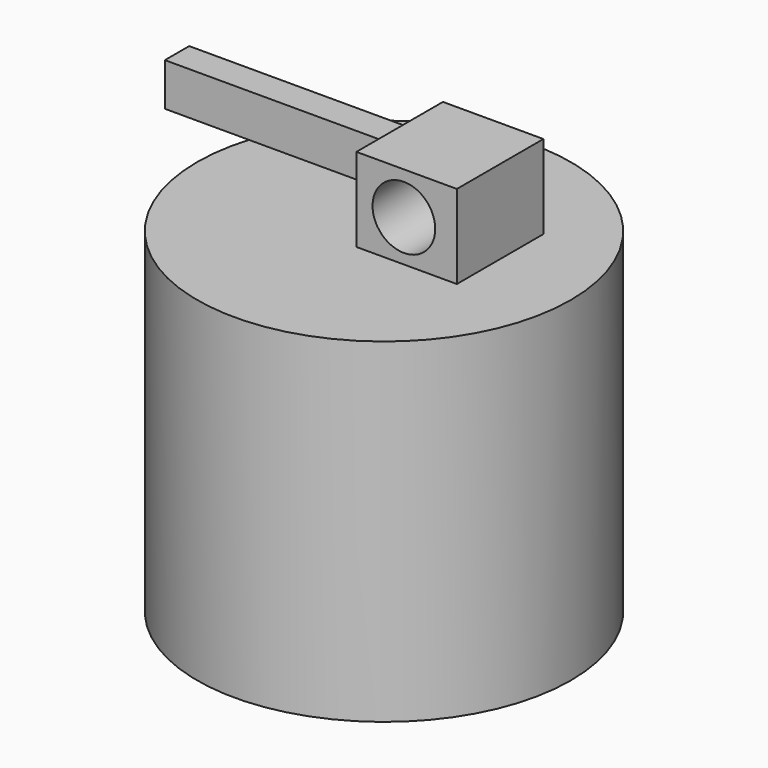
from build123d import *

# Parameters (mm, degrees)
F0_R     = 56.6775015073
F1_DEPTH = 101.6
F2_W     = 30.4712727666
F2_H     = 32.811390236
F3_DEPTH = 25.4
F4_W     = 9.221942164
F4_H     = 13.0037814379
F5_DEPTH = 73.66
F6_R     = 9.5030077165
F7_DEPTH = 50.8


with BuildPart() as f1:
    # F0 (on Top) → F1 (new body)
    with BuildSketch(Plane.XY):
        Circle(F0_R)
    extrude(amount=F1_DEPTH)

    # F2 (on face) → F3 (join)
    with BuildSketch(Plane.XY.offset(101.6)):
        with Locations((15.2356363833, 5.9477584437)):
            Rectangle(F2_W, F2_H)
    extrude(amount=F3_DEPTH)

    # F4 (on face) → F5 (join)
    with BuildSketch(Plane(origin=(0, 0, 0), x_dir=(0, -1, 0), z_dir=(-1, 0, 0))):
        with Locations((-13.5935484432, 113.1370440125)):
            Rectangle(F4_W, F4_H)
    extrude(amount=F5_DEPTH)

    # F6 (on face) → F7 (cut)
    with BuildSketch(Plane.XZ.offset(10.4579366744)):
        with Locations((14.3979880959, 114.1804158688)):
            Circle(F6_R)
    extrude(amount=-F7_DEPTH, mode=Mode.SUBTRACT)


solid = f1.part
